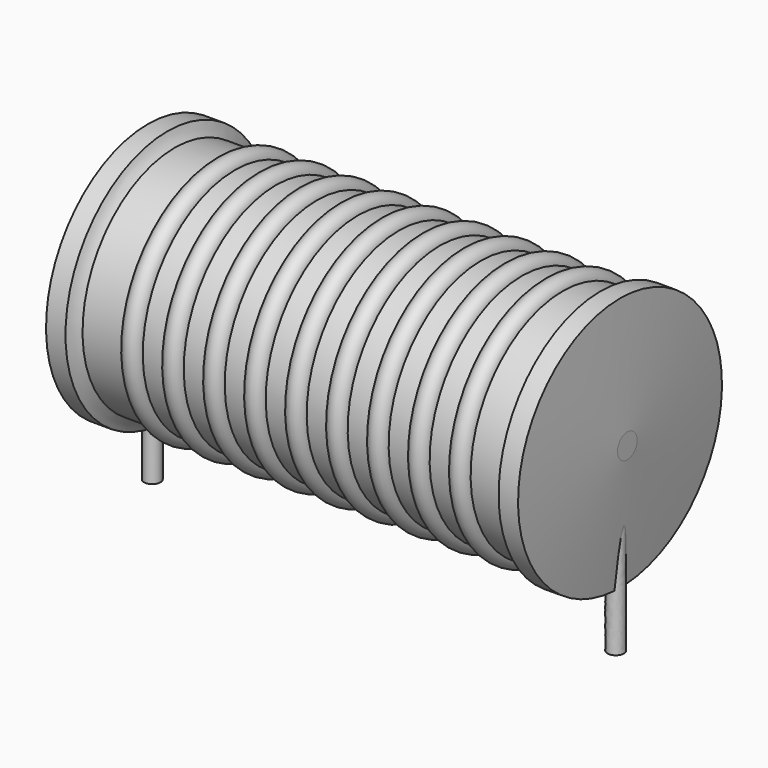
from build123d import *

# Parameters (mm, degrees)
SKETCH_R = 0.45


with BuildPart() as sweep_body:
    # Sweep: sweep along a path in Sketch001
    with BuildLine(Plane.XZ) as sweep_path:
        Line((0, -3), (0, 6.185))
        ThreePointArc((0, 6.185), (0.2636, 6.821392), (0.899989, 7.085))
        Line((0.899989, 7.085), (24.5, 7.085))
        ThreePointArc((24.5, 7.085), (25.136396, 6.821396), (25.4, 6.185))
        Line((25.4, 6.185), (25.4, -3))
    # Sketch → Sweep (sweep)
    with BuildSketch(Plane.XY.offset(-2)):
        Circle(SKETCH_R)
    sweep(path=sweep_path.line)


with BuildPart() as revolution:
    # Sketch002 → Revolution (revolve)
    with BuildSketch(Plane.XZ):
        with BuildLine():
            Line((-0.23495, 14.07), (0.83185, 14.07))
            ThreePointArc((0.83185, 14.07), (0.996057, 13.715134), (1.2319, 13.40325))
            Line((1.2319, 13.40325), (24.1681, 13.40325))
            ThreePointArc((24.1681, 13.40325), (24.403943, 13.715134), (24.56815, 14.07))
            Line((24.56815, 14.07), (25.63495, 14.07))
            ThreePointArc((26.035, 7.76), (25.855717, 10.916315), (25.63495, 14.07))
            Line((26.035, 7.085), (26.035, 7.76))
            Line((-0.635, 7.085), (26.035, 7.085))
            Line((-0.635, 7.085), (-0.635, 7.76))
            ThreePointArc((-0.23495, 14.07), (-0.455717, 10.916315), (-0.635, 7.76))
        make_face()
    revolve(axis=Axis((-0.635, 0, 7.085), (1, 0, 0)))


with BuildPart() as obj1:
    # Sketch003 → Revolution001 (revolve)
    with BuildSketch(Plane.XZ):
        with BuildLine():
            ThreePointArc((4.544595, 13.29657), (3.983121, 13.858044), (3.421647, 13.29657))
            Line((2.2987, 13.29657), (3.421647, 13.29657))
            Line((2.2987, 13.29657), (2.2987, 11.89957))
            Line((2.2987, 11.89957), (23.6347, 11.89957))
            Line((23.6347, 11.89957), (23.6347, 13.29657))
            Line((22.511753, 13.29657), (23.6347, 13.29657))
            ThreePointArc((22.511753, 13.29657), (21.950279, 13.858044), (21.388805, 13.29657))
            Line((20.265858, 13.29657), (21.388805, 13.29657))
            ThreePointArc((20.265858, 13.29657), (19.704384, 13.858044), (19.142911, 13.29657))
            Line((18.019963, 13.29657), (19.142911, 13.29657))
            ThreePointArc((18.019963, 13.29657), (17.458489, 13.858044), (16.897016, 13.29657))
            Line((15.774068, 13.29657), (16.897016, 13.29657))
            ThreePointArc((15.774068, 13.29657), (15.212595, 13.858044), (14.651121, 13.29657))
            Line((13.528174, 13.29657), (14.651121, 13.29657))
            ThreePointArc((13.528174, 13.29657), (12.9667, 13.858044), (12.405226, 13.29657))
            Line((11.282279, 13.29657), (12.405226, 13.29657))
            ThreePointArc((11.282279, 13.29657), (10.720805, 13.858044), (10.159332, 13.29657))
            Line((9.036384, 13.29657), (10.159332, 13.29657))
            ThreePointArc((9.036384, 13.29657), (8.474911, 13.858044), (7.913437, 13.29657))
            Line((6.790489, 13.29657), (7.913437, 13.29657))
            ThreePointArc((6.790489, 13.29657), (6.229016, 13.858044), (5.667542, 13.29657))
            Line((4.544595, 13.29657), (5.667542, 13.29657))
        make_face()
    revolve(axis=Axis((0.03175, 0, 7.085), (1, 0, 0)))

    # obj1: union Sweep body, Revolution
    add(sweep_body.part)
    add(revolution.part)


solid = obj1.part
